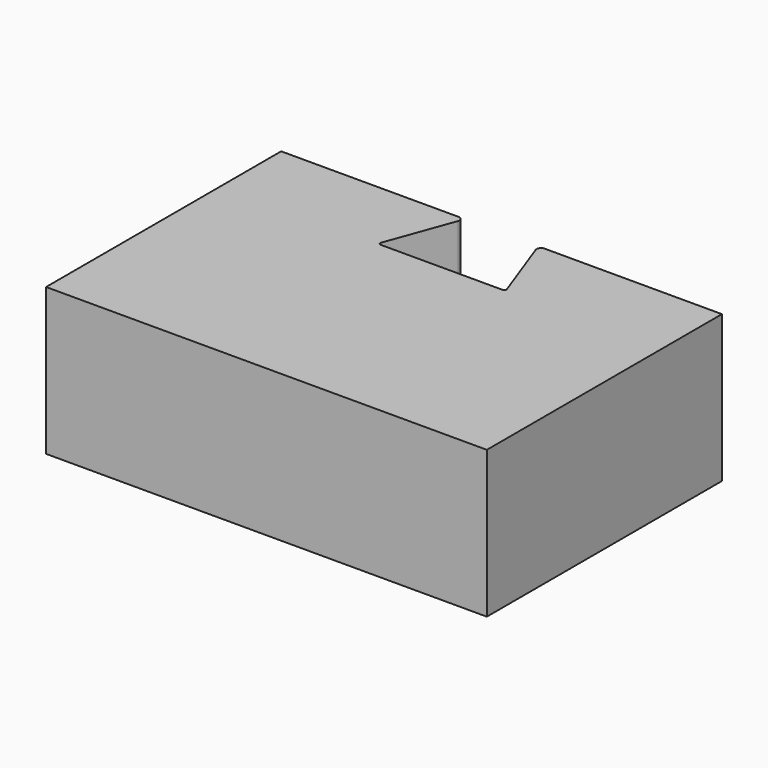
from build123d import *

# Parameters (mm, degrees)
F1_DEPTH = 10
F2_R     = 0.6
F3_R     = 0.3


with BuildPart() as f1:
    # F0 (on Top) → F1 (new body, symmetric)
    with BuildSketch(Plane.XY):
        Polygon((-30, 0), (0, 0), (30, 0), (30, 40), (5, 40), (8.712496, 29.8), (0, 29.8), (-8.712496, 29.8), (-5, 40), (-30, 40), align=None)
    extrude(amount=F1_DEPTH, both=True)

    # F2
    f2_edges = [f1.edges().sort_by_distance(p)[0] for p in [
        (-5, 40, 0),
        (5, 40, 0),
    ]]
    fillet(f2_edges, radius=F2_R)

    # F3
    f3_edges = [f1.edges().sort_by_distance(p)[0] for p in [
        (-8.712496, 29.8, 0),
        (8.712496, 29.8, 0),
    ]]
    fillet(f3_edges, radius=F3_R)


solid = f1.part
